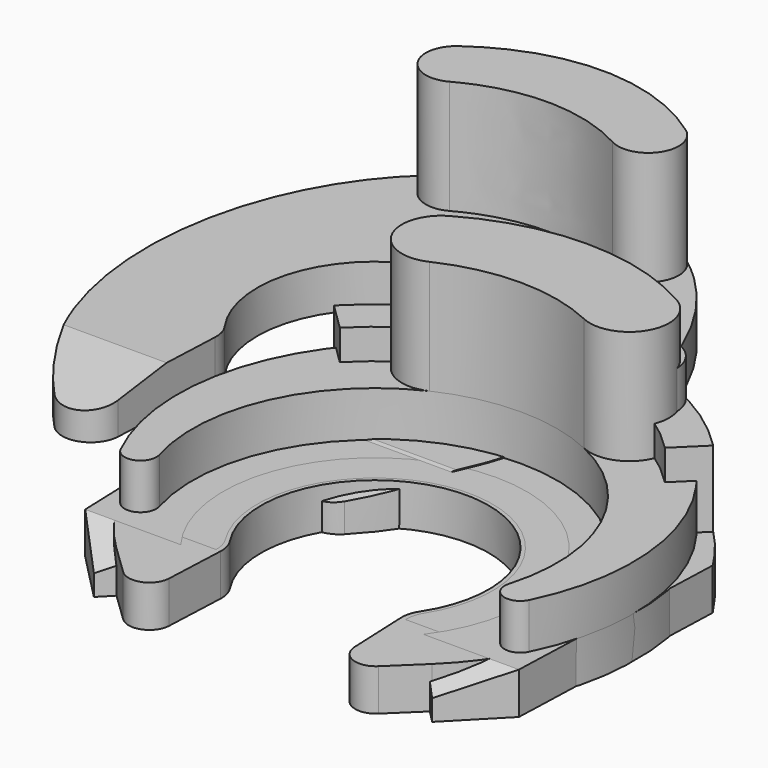
from build123d import *

# Parameters (mm, degrees)
PAD_DEPTH            = 1.1
PAD001_DEPTH         = 1.2
PAD002_DEPTH         = 3
PAD003_DEPTH         = 1.1
PAD004_DEPTH         = 3
POCKET_DEPTH         = 6.001
POCKET_DEPTH_BACK    = 6.001
PAD005_DEPTH         = 1.12
PAD006_DEPTH         = 3
POCKET001_DEPTH      = 12.001
POCKET001_DEPTH_BACK = 0.001
PAD007_DEPTH         = 1.1
PAD008_DEPTH         = 2
POCKET002_DEPTH      = 5.9308955855
POCKET002_DEPTH_BACK = 5.9308955855


with BuildPart() as body:
    # Sketch001 → Pad (new body)
    with BuildSketch(Plane.XY):
        with BuildLine():
            ThreePointArc((-3.3623760191, -4.0910299298), (-2.7851214881, -4.2036886405), (-2.4448575087, -3.7239645501))
            Line((-2.375, -2.1239645501), (-2.4448575087, -3.7239645501))
            ThreePointArc((-2.375, -2.1239645501), (-2.4030554088, -1.8762862386), (-2.5059778242, -1.6492650317))
            ThreePointArc((2.5059778241, -1.6492650317), (0, 3), (-2.5059778242, -1.6492650317))
            ThreePointArc((2.5059778241, -1.6492650317), (2.4030554088, -1.8762862386), (2.375, -2.1239645501))
            Line((2.375, -2.1239645501), (2.4448575087, -3.7239645501))
            ThreePointArc((2.4448575087, -3.7239645501), (2.7851214881, -4.2036886404), (3.362376019, -4.0910299297))
            Line((3.362376019, -4.0910299297), (4.159727223, -3.3239645501))
            ThreePointArc((4.159727223, -3.3239645501), (0, 7), (-4.159727223, -3.3239645501))
            Line((-4.159727223, -3.3239645501), (-3.3623760191, -4.0910299298))
        make_face()
    extrude(amount=PAD_DEPTH)

    # Sketch002 → Pad001 (join)
    with BuildSketch(Plane.XY.offset(1.1)):
        with BuildLine():
            ThreePointArc((5.3834370798, -1.6492650317), (0, 7), (-5.3834370798, -1.6492650317))
            ThreePointArc((-5.3834370797, -1.6492650317), (-4.8567694559, -1.8543164722), (-4.6070336858, -1.3473086572))
            ThreePointArc((4.6070336858, -1.3473086572), (0, 4.8), (-4.6070336858, -1.3473086572))
            ThreePointArc((4.6070336858, -1.3473086572), (4.8567694559, -1.8543164722), (5.3834370797, -1.6492650317))
        make_face()
    extrude(amount=PAD001_DEPTH)

    # Sketch003 → Pad002 (join)
    with BuildSketch(Plane.XY.offset(2.3)):
        with BuildLine():
            ThreePointArc((-3, 6.1961524227), (-3.4035480565, 4.8095776308), (-2.0355250412, 4.3470263177))
            ThreePointArc((2.0355250412, 4.3470263177), (0, 4.8), (-2.0355250412, 4.3470263177))
            ThreePointArc((2.0355250412, 4.3470263177), (3.4035480565, 4.8095776308), (3, 6.1961524227))
            ThreePointArc((3, 6.1961524227), (0, 7), (-3, 6.1961524227))
        make_face()
    extrude(amount=PAD002_DEPTH)


with BuildPart() as body001:
    # Sketch005 → Pad003 (new body)
    with BuildSketch(Plane.XY):
        with BuildLine():
            ThreePointArc((-3.2259399201, -3.9854618904), (-2.8115017402, -4.0592572787), (-2.5698575087, -3.7145649092))
            Line((-2.5, -2.1145649092), (-2.5698575087, -3.7145649092))
            ThreePointArc((-2.5, -2.1145649092), (-2.526003623, -1.8744677776), (-2.6224716896, -1.6530705482))
            ThreePointArc((2.6224716896, -1.6530705482), (0, 3.1), (-2.6224716896, -1.6530705482))
            ThreePointArc((2.6224716896, -1.6530705482), (2.526003623, -1.8744677776), (2.5, -2.1145649092))
            Line((2.5, -2.1145649092), (2.5698575086, -3.7145649092))
            ThreePointArc((2.5698575086, -3.7145649092), (2.8115017402, -4.0592572787), (3.2259399201, -3.9854618904))
            Line((3.2259399201, -3.9854618904), (4.063448863, -3.2145649092))
            ThreePointArc((4.063448863, -3.2145649092), (0, 7.2), (-4.063448863, -3.2145649092))
            Line((-4.063448863, -3.2145649092), (-3.2259399201, -3.9854618904))
        make_face()
    extrude(amount=PAD003_DEPTH)

    # Sketch006 → Pad004 (join)
    with BuildSketch(Plane.XY.offset(1.1)):
        with BuildLine():
            ThreePointArc((-3, 6.3961524227), (-3.3638890962, 5.1600240702), (-2.1470608433, 4.736045791))
            ThreePointArc((2.1470608433, 4.7360457911), (0, 5.2), (-2.1470608433, 4.7360457911))
            ThreePointArc((2.1470608433, 4.736045791), (3.3638890962, 5.1600240702), (3, 6.3961524227))
            ThreePointArc((3, 6.3961524227), (0, 7.2), (-3, 6.3961524227))
        make_face()
    extrude(amount=PAD004_DEPTH)

    # Sketch007 → Pocket (cut, two sides)
    with BuildSketch(Plane.YZ) as pocket_sk:
        Polygon((-2.1145649092, 1.1), (-4.088882367, 1.1), (-4.088882367, 0.8), align=None)
    extrude(amount=-POCKET_DEPTH, mode=Mode.SUBTRACT)
    extrude(pocket_sk.sketch, amount=POCKET_DEPTH_BACK, mode=Mode.SUBTRACT)


with BuildPart() as body002:
    # Sketch009 → Pad005 (new body)
    with BuildSketch(Plane.XY):
        with BuildLine():
            ThreePointArc((-3.4570154899, 5.7270843841), (-3.5690286911, 5.4926393827), (-3.6, 5.2346622636))
            Line((-3.6, 5.2346622636), (-3.4677572031, 2.2058042473))
            ThreePointArc((-3.4677572031, 2.2058042473), (-2.984770714, 1.5373879284), (-2.1798308391, 1.7166311204))
            add(Edge.make_bspline(
                [(-2.1798308391, 1.7166311204), (10.6904050416, 15), (-6, 15), (-22.6904050416, 15), (-9.8201691609, 1.7166311204)],
                knots=[3.8317971165, 3.8317971165, 3.8317971165, 6.2831853072, 6.2831853072, 8.7345734978, 8.7345734978, 8.7345734978], degree=2, weights=[1, 0.338292883, 1, 0.338292883, 1]))
            ThreePointArc((-9.8201691609, 1.7166311204), (-9.015229286, 1.5373879284), (-8.5322427969, 2.2058042473))
            Line((-8.5322427969, 2.2058042473), (-8.4, 5.2346622636))
            ThreePointArc((-8.4, 5.2346622636), (-8.4309713089, 5.4926393827), (-8.5429845101, 5.7270843841))
            ThreePointArc((-8.5429845101, 5.7270843841), (-6, 10.6), (-3.4570154899, 5.7270843841))
        make_face()
    extrude(amount=PAD005_DEPTH)

    # Sketch010 → Pad006 (join)
    with BuildSketch(Plane.XY.offset(1.12)):
        with BuildLine():
            ThreePointArc((-3.8511770379, 12.6441284155), (-2.7912931609, 12.9200496843), (-3, 13.9951905284))
            add(Edge.make_bspline(
                [(-3, 13.9951905284), (-6, 16.1602540378), (-9, 13.9951905284)],
                knots=[5.7595865316, 5.7595865316, 5.7595865316, 6.8067840828, 6.8067840828, 6.8067840828], degree=2, weights=[1, 0.8660254038, 1]))
            ThreePointArc((-9, 13.9951905284), (-9.2087068391, 12.9200496843), (-8.1488229621, 12.6441284155))
            add(Edge.make_bspline(
                [(-3.8511770379, 12.6441284155), (-6, 13.815938751), (-8.1488229621, 12.6441284155)],
                knots=[5.8378787648, 5.8378787648, 5.8378787648, 6.7284918496, 6.7284918496, 6.7284918496], degree=2, weights=[1, 0.9024786694, 1]))
        make_face()
    extrude(amount=PAD006_DEPTH)

    # Sketch011 → Pocket001 (cut, two sides)
    with BuildSketch(Plane.YZ) as pocket001_sk:
        Polygon((3.7202332554, 1.12), (1.4885187878, 1.12), (1.4885187878, 0.72), align=None)
    extrude(amount=-POCKET001_DEPTH, mode=Mode.SUBTRACT)
    extrude(pocket001_sk.sketch, amount=POCKET001_DEPTH_BACK, mode=Mode.SUBTRACT)


with BuildPart() as body003:
    # Sketch013 → Pad007 (new body)
    with BuildSketch(Plane.XY):
        with BuildLine():
            ThreePointArc((5.9298955855, 3.7197228856), (0, 7.0000000001), (-5.9298955855, 3.7197228856))
            Line((-5.9298955855, 3.7197228856), (-5.7161901532, -2.4))
            Line((-5.7161901532, -2.4), (-4.4580950766, -3.687321552))
            Line((-4.4580950766, -3.687321552), (-3.2, -2.4))
            ThreePointArc((3.2, -2.4), (0, 4.0000000001), (-3.2, -2.4))
            Line((3.2, -2.4), (4.4580950766, -3.687321552))
            Line((4.4580950766, -3.687321552), (5.7161901533, -2.4))
            Line((5.7161901533, -2.4), (5.9298955855, 3.7197228856))
        make_face()
    extrude(amount=PAD007_DEPTH)

    # Sketch014 → Pad008 (join)
    with BuildSketch(Plane.XY.offset(1.1)):
        with BuildLine():
            ThreePointArc((5, 4.8989794856), (0, 7), (-5, 4.8989794856))
            Line((-5, 4.8989794856), (-4.2857142857, 4.1991252733))
            ThreePointArc((4.2857142857, 4.1991252733), (0, 6), (-4.2857142857, 4.1991252733))
            Line((4.2857142857, 4.1991252733), (5, 4.8989794856))
        make_face()
    extrude(amount=PAD008_DEPTH)

    # Sketch015 → Pocket002 (cut, two sides)
    with BuildSketch(Plane.YZ) as pocket002_sk:
        Polygon((-2.4, 1.1), (-3.687321552, 1.1), (-3.687321552, 0.55), align=None)
    extrude(amount=-POCKET002_DEPTH, mode=Mode.SUBTRACT)
    extrude(pocket002_sk.sketch, amount=POCKET002_DEPTH_BACK, mode=Mode.SUBTRACT)


solid = Compound([body.part, body001.part, body002.part, body003.part])
